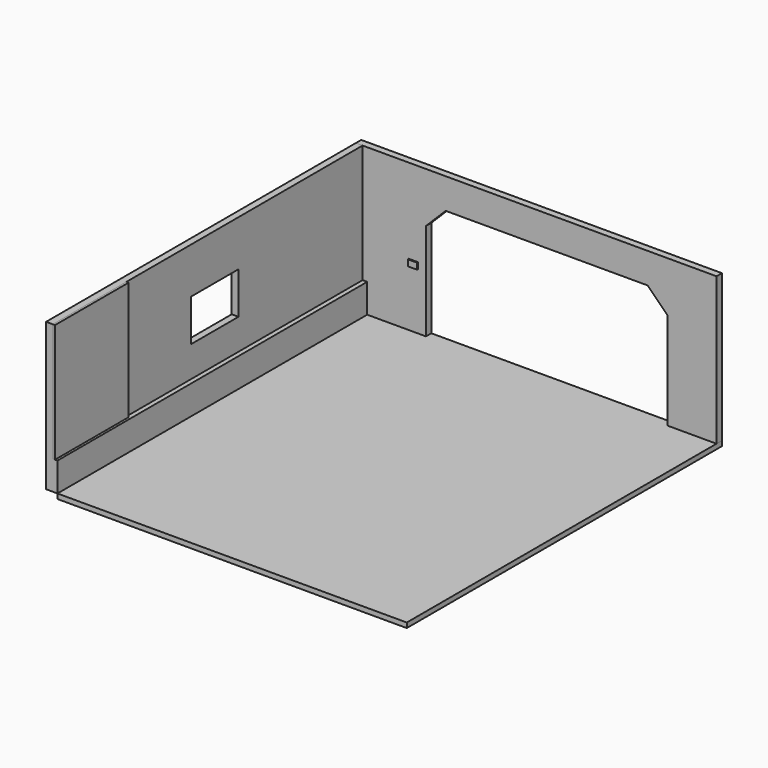
from build123d import *

# Parameters (mm, degrees)
F0_W      = 7988.3
F0_H      = 3041.65
F1_DEPTH  = 139.7
F2_W      = 1219.2
F2_H      = 863.6
F3_DEPTH  = 139.7
F4_W      = 95.25
F4_H      = 596.9
F5_DEPTH  = 7988.3
F6_W      = 139.7
F6_H      = 3041.65
F7_DEPTH  = 7442.2
F9_DEPTH  = 139.7
F11_DEPTH = 101.6
F12_W     = 44.45
F12_H     = 2444.75
F13_DEPTH = 1892.3
F14_W     = 190.5
F14_H     = 127
F15_DEPTH = 25.4


with BuildPart() as f1:
    # F0 (on Right) → F1 (new body)
    with BuildSketch(Plane.YZ):
        with Locations((-2.944235, -112.775769)):
            Rectangle(F0_W, F0_H)
    extrude(amount=F1_DEPTH)

    # F2 (on face) → F3 (cut, through all)
    with BuildSketch(Plane.YZ.offset(139.7)):
        with Locations((181.205765, 30.099231)):
            Rectangle(F2_W, F2_H)
    extrude(amount=-F3_DEPTH, mode=Mode.SUBTRACT)

    # F4 (on face) → F5 (join, through all)
    with BuildSketch(Plane.XZ.offset(3997.094235)):
        with Locations((187.325, -1335.150769)):
            Rectangle(F4_W, F4_H)
    extrude(amount=-F5_DEPTH)


with BuildPart() as f7:
    # F6 (on face) → F7 (new body)
    with BuildSketch(Plane(origin=(0, 0, 0), x_dir=(0, -1, 0), z_dir=(-1, 0, 0))):
        with Locations((-4061.055765, -112.775769)):
            Rectangle(F6_W, F6_H)
    extrude(amount=-F7_DEPTH)

    # F8 (on face) → F9 (cut, through all)
    with BuildSketch(Plane.XZ.offset(-3991.205765)):
        Polygon((1447.8, 372.999231), (1447.8, -1633.600769), (6429.096018, -1633.600769), (6429.096018, 372.999231), (6022.696018, 779.399231), (1854.2, 779.399231), align=None)
    extrude(amount=-F9_DEPTH, mode=Mode.SUBTRACT)


with BuildPart() as f11:
    # F10 (on face) → F11 (new body)
    with BuildSketch(Plane(origin=(0, 0, -1633.600769), x_dir=(1, 0, 0), z_dir=(0, 0, -1))):
        Polygon((7442.2, 3997.094235), (234.95, 3997.094235), (234.95, -3991.205765), (0, -3991.205765), (0, -4130.905765), (7442.2, -4130.905765), align=None)
    extrude(amount=F11_DEPTH)


with BuildPart() as f13:
    # F12 (on face) → F13 (new body)
    with BuildSketch(Plane.XZ.offset(3997.094235)):
        with Locations((161.925, 185.674231)):
            Rectangle(F12_W, F12_H)
    extrude(amount=-F13_DEPTH)


with BuildPart() as f15:
    # F14 (on face) → F15 (new body)
    with BuildSketch(Plane.XZ.offset(-3991.205765)):
        with Locations((1187.45, -401.700769)):
            Rectangle(F14_W, F14_H)
    extrude(amount=F15_DEPTH)


solid = Compound([f1.part, f7.part, f11.part, f13.part, f15.part])
